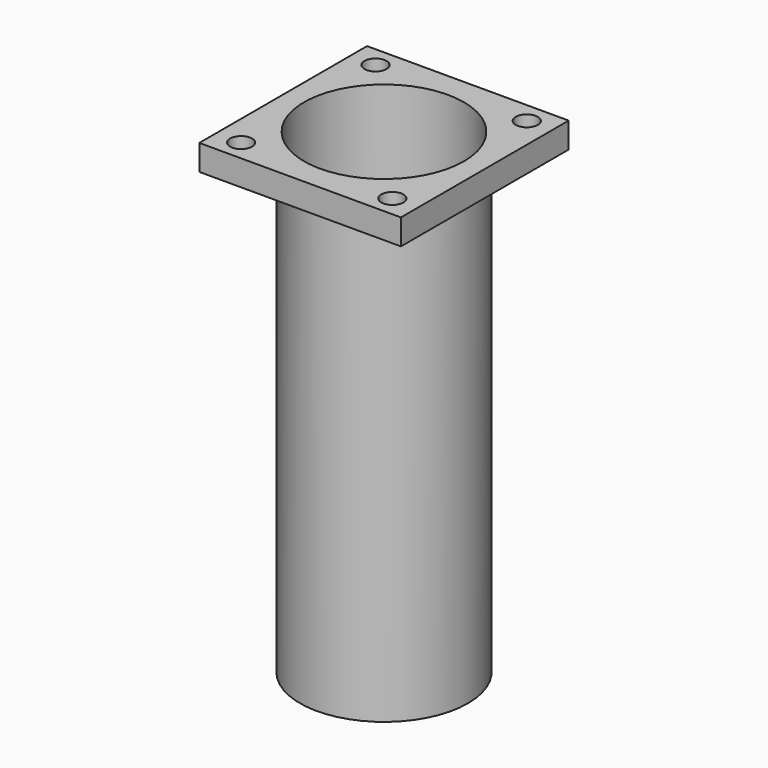
from build123d import *

# Parameters (mm, degrees)
F0_W     = 38.1
F0_H     = 39.624
F1_DEPTH = 4.826
F2_R     = 15.875
F3_DEPTH = 89.916
F4_R     = 15.113
F5_DEPTH = 88.392
F6_R     = 2.0828
F7_DEPTH = 89.917


with BuildPart() as f1:
    # F0 (on Top) → F1 (new body)
    with BuildSketch(Plane.XY):
        with Locations((19.05, 19.812)):
            Rectangle(F0_W, F0_H)
    extrude(amount=-F1_DEPTH)

    # F2 (on face) → F3 (join)
    with BuildSketch(Plane.XY):
        with Locations((19.05, 19.812)):
            Circle(F2_R)
    extrude(amount=-F3_DEPTH)

    # F4 (on face) → F5 (cut)
    with BuildSketch(Plane.XY):
        with Locations((19.05, 19.812)):
            Circle(F4_R)
    extrude(amount=-F5_DEPTH, mode=Mode.SUBTRACT)

    # F6 (on Top) → F7 (cut, through all)
    with BuildSketch(Plane.XY):
        with Locations((33.3248, 35.687)):
            Circle(F6_R)
        with Locations((33.3248, 3.937)):
            Circle(F6_R)
        with Locations((4.7498, 35.687)):
            Circle(F6_R)
        with Locations((4.7498, 3.937)):
            Circle(F6_R)
    extrude(amount=-F7_DEPTH, mode=Mode.SUBTRACT)


solid = f1.part
